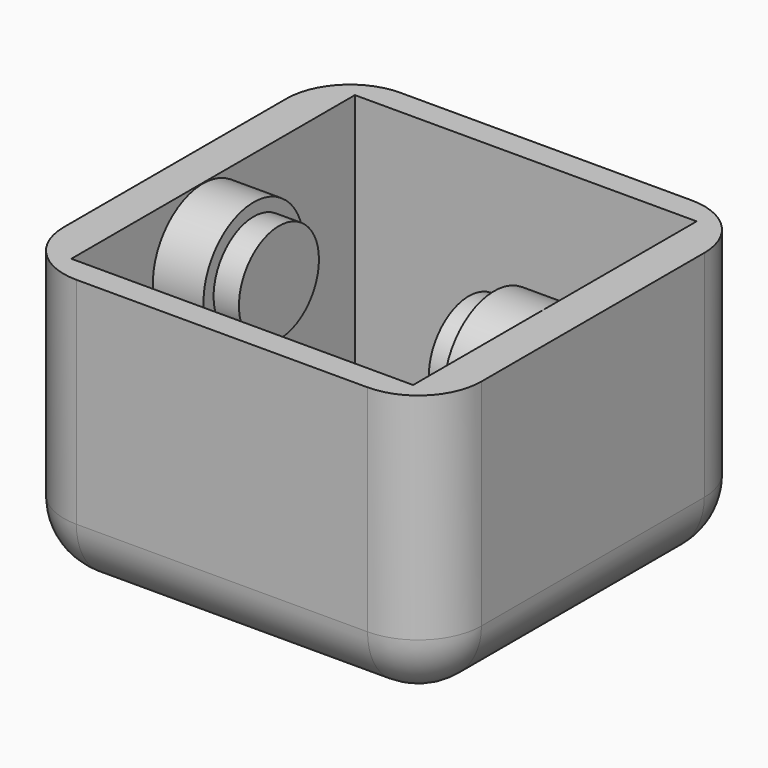
from build123d import *

# Parameters (mm, degrees)
F0_W     = 3
F0_H     = 14
F0_H_2   = 2
F0_W_2   = 27
F0_H_3   = 5
F1_DEPTH = 22
F0_W_3   = 7
F0_H_4   = 10.0040441751
F2_DEPTH = 2
F3_R     = 3.95
F4_DEPTH = 9
F5_R     = 5
F3_R_2   = 4.95
F6_DEPTH = 7


with BuildPart() as f1:
    # F0 (on Top) → F1 (new body)
    with BuildSketch(Plane.XY):
        Polygon((3, 32), (0, 32), (0, 21), (3, 21), (3, 30), align=None)
        Polygon((33, 32), (3, 32), (3, 30), (30, 30), (33, 30), align=None)
        with Locations((31.5, 23)):
            Rectangle(F0_W, F0_H)
        with Locations((31.5, 9)):
            Rectangle(F0_W, F0_H)
        with Locations((31.5, 1)):
            Rectangle(F0_W, F0_H_2)
        with Locations((16.5, 1)):
            Rectangle(F0_W_2, F0_H_2)
        Polygon((3, 11), (0, 11), (0, 0), (3, 0), (3, 2), align=None)
        with Locations((1.5, 13.5)):
            Rectangle(F0_W, F0_H_3)
        with Locations((1.5, 18.5)):
            Rectangle(F0_W, F0_H_3)
    extrude(amount=F1_DEPTH)

    # F0 (on Top) → F2 (join)
    with BuildSketch(Plane.XY):
        Polygon((30, 30), (3, 30), (3, 21), (3, 16), (6.5, 16), (6.5, 26.0040441751), (13.5, 26.0040441751), (13.5, 16), (16.5, 16), (19.5, 16), (19.5, 26.0040441751), (26.5, 26.0040441751), (26.5, 16), (30, 16), align=None)
        Polygon((6.5, 16), (3, 16), (3, 11), (3, 2), (30, 2), (30, 16), (26.5, 16), (26.5, 5.9959558249), (19.5, 5.9959558249), (19.5, 16), (16.5, 16), (13.5, 16), (13.5, 5.9959558249), (6.5, 5.9959558249), align=None)
        with Locations((10, 10.9979779124)):
            Rectangle(F0_W_3, F0_H_4)
        with Locations((10, 21.0020220876)):
            Rectangle(F0_W_3, F0_H_4)
        with Locations((23, 21.0020220876)):
            Rectangle(F0_W_3, F0_H_4)
        with Locations((23, 10.9979779124)):
            Rectangle(F0_W_3, F0_H_4)
    extrude(amount=F2_DEPTH)

    # F3 (on Right) → F4 (join)
    with BuildSketch(Plane.YZ):
        with Locations((15, 17)):
            Circle(F3_R)
    extrude(amount=F4_DEPTH)

    # F5
    f5_edges = [f1.edges().sort_by_distance(p)[0] for p in [
        (16.5, 32, 0),
        (0, 16, 0),
        (16.5, 0, 0),
        (33, 16, 0),
        (33, 32, 11),
        (0, 32, 11),
        (0, 0, 11),
        (33, 0, 11),
    ]]
    fillet(f5_edges, radius=F5_R)

    # F3 (on Right) → F6 (join)
    with BuildSketch(Plane.YZ):
        with Locations((15, 17)):
            Circle(F3_R_2)
        with Locations((15, 17)):
            Circle(F3_R, mode=Mode.SUBTRACT)
    extrude(amount=F6_DEPTH)

    # F8: F1 across plane


with BuildPart() as f1_1:
    add(f1.part)
    add(f1.part.mirror(Plane.YZ.offset(16.5)))


solid = f1_1.part
